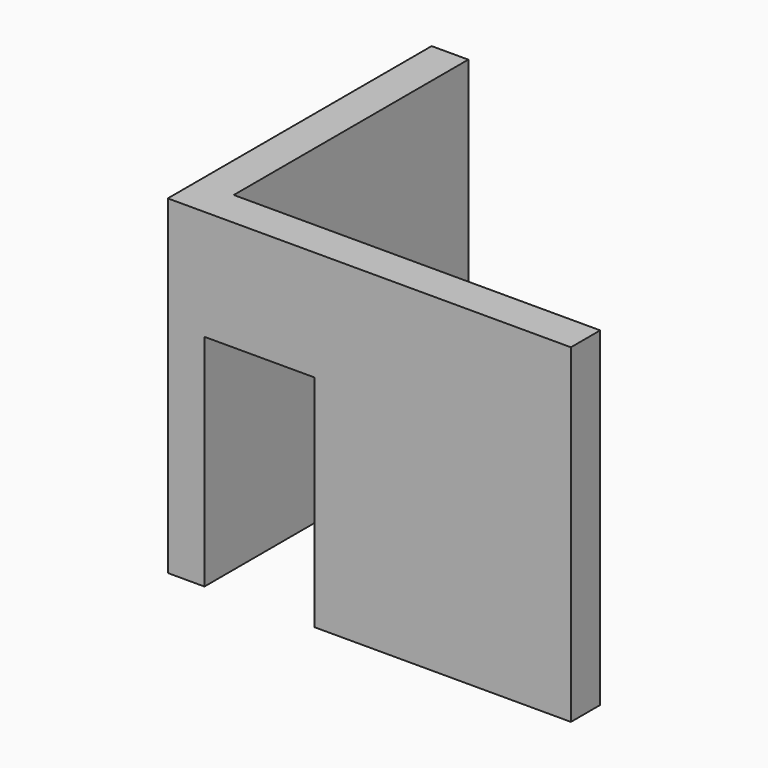
from build123d import *

# Parameters (mm, degrees)
BOX012_W     = 1
BOX012_H     = 9
BOX012_DEPTH = 9
BOX011_W     = 7
BOX011_H     = 1
BOX011_DEPTH = 9
BOX013_W     = 3
BOX013_H     = 1
BOX013_DEPTH = 3


with BuildPart() as box012:
    # Box012 → Box012 (new body)
    with BuildSketch(Plane(origin=(33, 15, 1), x_dir=(1, 0, 0), z_dir=(0, 0, 1))):
        with Locations((0.5, 4.5)):
            Rectangle(BOX012_W, BOX012_H)
    extrude(amount=BOX012_DEPTH)


with BuildPart() as box011:
    # Box011 → Box011 (new body)
    with BuildSketch(Plane(origin=(37, 15, 1), x_dir=(1, 0, 0), z_dir=(0, 0, 1))):
        with Locations((3.5, 0.5)):
            Rectangle(BOX011_W, BOX011_H)
    extrude(amount=BOX011_DEPTH)


with BuildPart() as fusion003:
    # Box013 → Box013 (new body)
    with BuildSketch(Plane(origin=(34, 15, 7), x_dir=(1, 0, 0), z_dir=(0, 0, 1))):
        with Locations((1.5, 0.5)):
            Rectangle(BOX013_W, BOX013_H)
    extrude(amount=BOX013_DEPTH)

    # Fusion003: union Box012, Box011
    add(box012.part)
    add(box011.part)


with BuildPart() as fusion003_1:
    # Fusion003 placement: moved
    add(fusion003.part.moved(Location((-7, 0, 0))))


solid = fusion003_1.part
